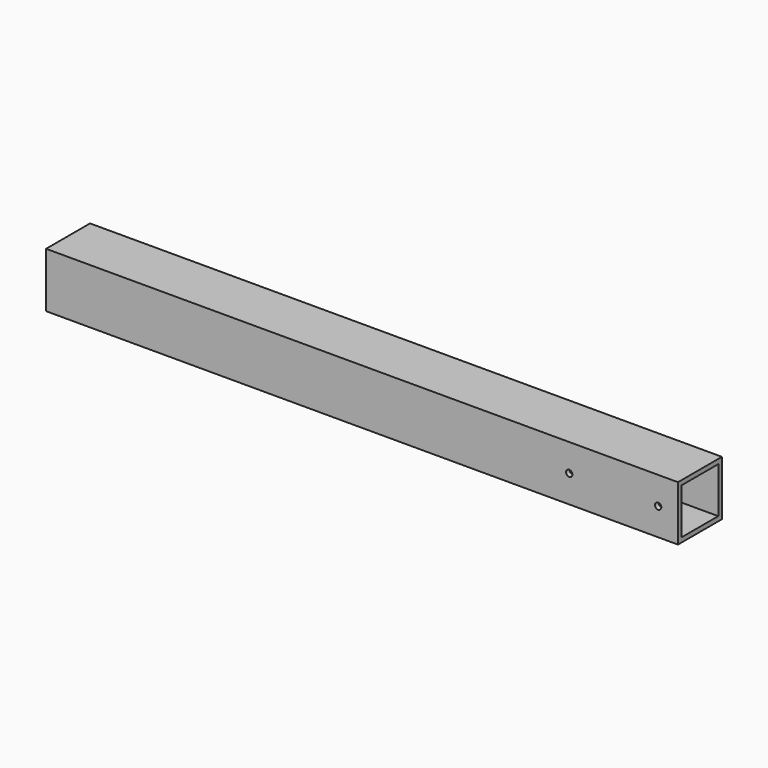
from build123d import *

# Parameters (mm, degrees)
F0_W     = 76.2
F0_H     = 76.2
F0_W_2   = 63.5
F0_H_2   = 63.5
F1_DEPTH = 876.3
F4_D     = 8.8
F4_DEPTH = 29.15
F4_TIP   = 2.6437867237


with BuildPart() as f1:
    # F0 (on Right) → F1 (new body)
    with BuildSketch(Plane.YZ):
        with Locations((1.4744321764, 0.1075561106)):
            Rectangle(F0_W, F0_H)
        with Locations((1.4744321764, 0.1075561106)):
            Rectangle(F0_W_2, F0_H_2, mode=Mode.SUBTRACT)
    extrude(amount=F1_DEPTH)

    # F4
    with Locations(Plane.XZ.offset(36.6255678236)):
        with Locations((848.8616235588, 0), (725.4748, 0)):
            Hole(F4_D / 2, depth=F4_DEPTH)
            with Locations((0, 0, -(F4_DEPTH + F4_TIP / 2))):  # 118° drill point
                Cone(0, F4_D / 2, F4_TIP, mode=Mode.SUBTRACT)


solid = f1.part
